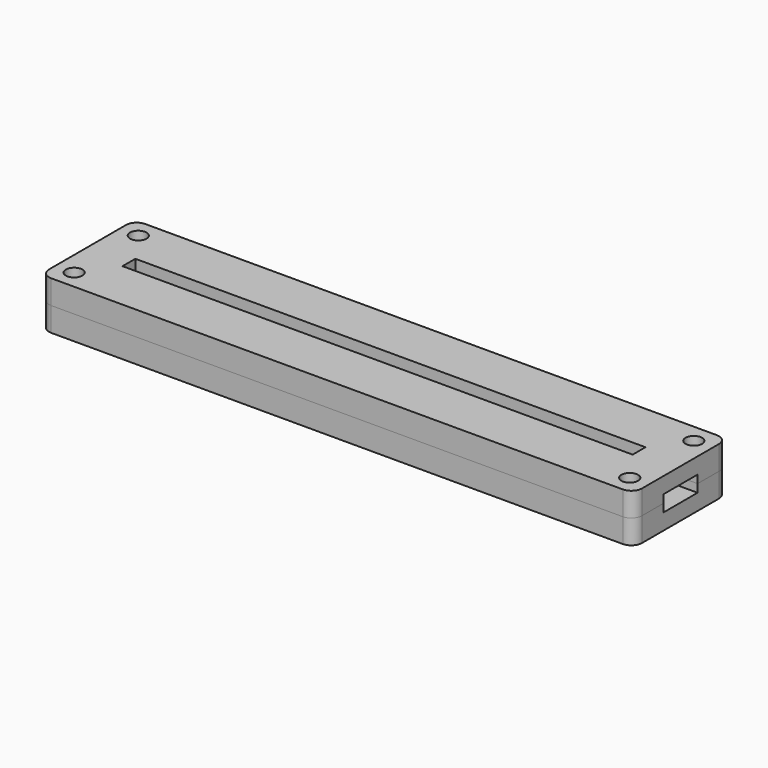
from build123d import *

# Parameters (mm, degrees)
BOX_BOTTOM_HALF_0_W     = 113
BOX_BOTTOM_HALF_0_H     = 24
BOX_BOTTOM_HALF_0_DEPTH = 5.5
SKETCH_W                = 111
SKETCH_H                = 22
PAD_DEPTH               = 3
PAD001_DEPTH            = 3
SKETCH002_W             = 111
SKETCH002_H             = 22
SKETCH002_W_2           = 95.5
SKETCH002_H_2           = 3
PAD002_DEPTH            = 3
SKETCH003_R             = 1.55
POCKET_DEPTH            = 236.034037
POLARPATTERN_COUNT      = 2
POLARPATTERN001_COUNT   = 2
POLARPATTERN002_COUNT   = 2
FILLET_R                = 2


with BuildPart() as box_bottom_half_0_body:
    # box_bottom_half_0 → box_bottom_half_0 (new body)
    with BuildSketch(Plane(origin=(-56.5, -12, -1), x_dir=(1, 0, 0), z_dir=(0, 0, 1))):
        with Locations((56.5, 12)):
            Rectangle(BOX_BOTTOM_HALF_0_W, BOX_BOTTOM_HALF_0_H)
    extrude(amount=BOX_BOTTOM_HALF_0_DEPTH)


with BuildPart() as body:
    # Sketch → Pad (new body)
    with BuildSketch(Plane.XY):
        Rectangle(SKETCH_W, SKETCH_H)
    extrude(amount=PAD_DEPTH)

    # Sketch001 (on Face6 of Pad) → Pad001 (join)
    with BuildSketch(Plane.XY.offset(3)):
        Polygon((-55.5, 11), (55.5, 11), (55.5, 4), (50, 4), (50, 5), (-50, 5), (-50, 4), (-55.5, 4), align=None)
        Polygon((-55.5, -11), (55.5, -11), (55.5, -4), (50, -4), (50, -5), (-50, -5), (-50, -4), (-55.5, -4), align=None)
    extrude(amount=PAD001_DEPTH)

    # Sketch002 (on Face12 of Pad001) → Pad002 (join)
    with BuildSketch(Plane.XY.offset(6)):
        Rectangle(SKETCH002_W, SKETCH002_H)
        Rectangle(SKETCH002_W_2, SKETCH002_H_2, mode=Mode.SUBTRACT)
    extrude(amount=PAD002_DEPTH)

    # Sketch003 (on Face26 of Pad002) → Pocket (cut, through all)
    with BuildSketch(Plane.XY.offset(9)):
        with Locations((-52, 7.5)):
            Circle(SKETCH003_R)
    pocket = extrude(amount=-POCKET_DEPTH, mode=Mode.SUBTRACT)

    # PolarPattern: Pocket ×2 about axis
    polarpattern_axis = Axis((0, 0, 0), (0, 1, 0))
    for i in range(1, POLARPATTERN_COUNT):
        add(pocket.rotate(polarpattern_axis, i * 360 / POLARPATTERN_COUNT), mode=Mode.SUBTRACT)

    # PolarPattern001: Pocket ×2 about axis
    polarpattern001_axis = Axis((0, 0, 0), (1, 0, 0))
    for i in range(1, POLARPATTERN001_COUNT):
        add(pocket.rotate(polarpattern001_axis, i * 360 / POLARPATTERN001_COUNT), mode=Mode.SUBTRACT)

    # PolarPattern002: Pocket ×2 about axis
    polarpattern002_axis = Axis((0, 0, 9), (0, 0, 1))
    for i in range(1, POLARPATTERN002_COUNT):
        add(pocket.rotate(polarpattern002_axis, i * 360 / POLARPATTERN002_COUNT), mode=Mode.SUBTRACT)

    # Fillet
    fillet_edges = [body.edges().sort_by_distance(p)[0] for p in [
        (55.5, 11, 7.5),
        (55.5, 11, 4.5),
        (55.5, 11, 1.5),
        (55.5, -11, 7.5),
        (-55.5, 11, 7.5),
        (-55.5, -11, 7.5),
    ]]
    fillet(fillet_edges, radius=FILLET_R)


with BuildPart() as bottom_half_0_body:
    # bottom_half_0 base: copy of Body
    add(body.part)

    # bottom_half_0: intersect box_bottom_half_0 body
    add(box_bottom_half_0_body.part, mode=Mode.INTERSECT)


with BuildPart() as top_half_0_body:
    # top_half_0 base: copy of Body
    add(body.part)

    # top_half_0: cut box_bottom_half_0 body
    add(box_bottom_half_0_body.part, mode=Mode.SUBTRACT)


solid = Compound([bottom_half_0_body.part, top_half_0_body.part])
